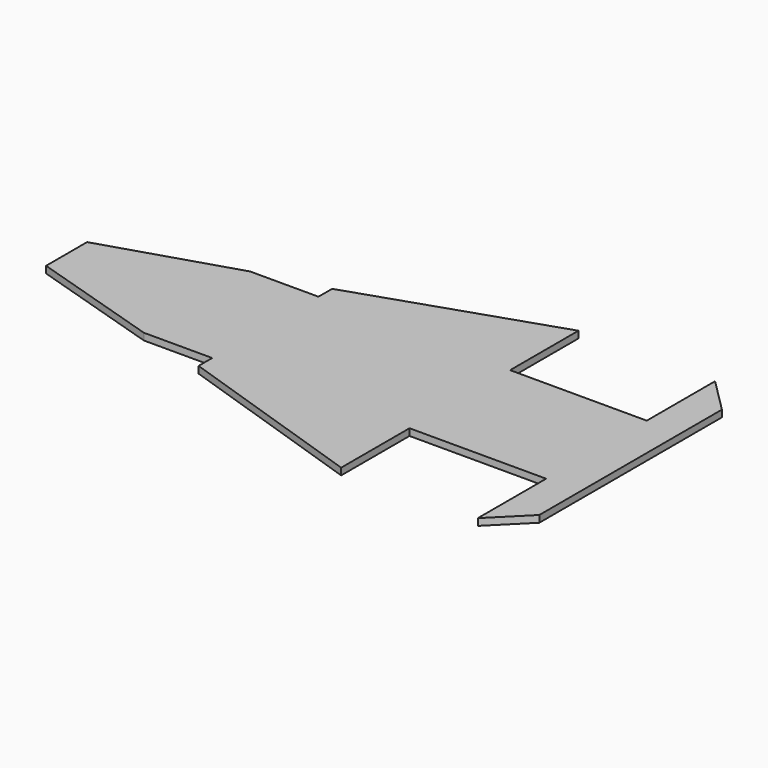
from build123d import *

# Parameters (mm, degrees)
F1_DEPTH = 2


with BuildPart() as f1:
    # F0 (on Top) → F1 (new body, symmetric)
    with BuildSketch(Plane.XY):
        Polygon((0, 15), (0, 0), (330.200394, 0), (330.200394, 66.809331), (310.200394, 86.809331), (310.200394, 36.809331), (230.200394, 36.809331), (230.200394, 86.809331), (116.358398, 48.861999), (116.358398, 38.861999), (76.358398, 38.861999), align=None)
        Polygon((330.200394, 0), (0, 0), (0, -15), (76.358398, -38.861999), (116.358398, -38.861999), (116.358398, -48.861999), (230.200394, -86.809331), (230.200394, -36.809331), (310.200394, -36.809331), (310.200394, -86.809331), (330.200394, -66.809331), align=None)
    extrude(amount=F1_DEPTH, both=True)


solid = f1.part
